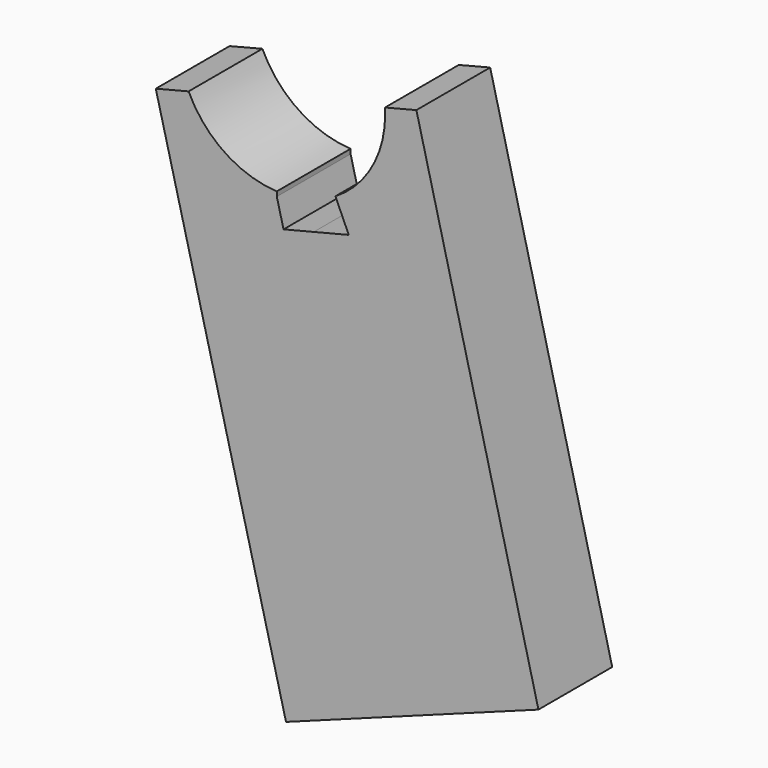
from build123d import *

# Parameters (mm, degrees)
F1_DEPTH = 15.24
F3_DEPTH = 19.05


with BuildPart() as f1:
    # F0 (on Front) → F1 (new body)
    with BuildSketch(Plane.XZ):
        with BuildLine():
            Line((-21.52114356, 85.1240309625), (0, 0))
            Line((0, 0), (20.8568082863, 7.6775108668))
            Line((20.8568082863, 7.6775108668), (4.5795240596, 72.7718073389))
            Line((4.5795240596, 72.7718073389), (-0.4082683617, 71.5245749498))
            Line((-0.4082683617, 71.5245749498), (-1.5212152076, 75.9266886902))
            Line((-1.5212152076, 75.9266886902), (-1.5212152076, 76.6897401217))
            ThreePointArc((-1.5212152076, 76.6897401217), (-10.169053912, 79.5702708584), (-16.09521015, 86.4958209323))
            Line((-16.09521015, 86.4958209323), (-21.52114356, 85.1240309625))
        make_face()
        with BuildLine():
            Line((4.5795240596, 72.7718073389), (20.8568082863, 7.6775108668))
            Line((20.8568082863, 7.6775108668), (41.7136165726, 15.3550217335))
            Line((41.7136165726, 15.3550217335), (21.5447748881, 96.012))
            Line((21.5447748881, 96.012), (16.3563096717, 94.7002469789))
            ThreePointArc((16.3563096717, 94.7002469789), (16.3779545339, 94.2047648695), (16.3851715255, 93.708862726))
            ThreePointArc((16.3851715255, 93.708862726), (14.1881185465, 85.3390731447), (8.1634770852, 79.127461865))
            Line((8.1634770852, 79.127461865), (10.3645013352, 74.2183813778))
            Line((10.3645013352, 74.2183813778), (4.5795240596, 72.7718073389))
        make_face()
    extrude(amount=F1_DEPTH)

    # F2 (on face) → F3 (cut)
    with BuildSketch(Plane(origin=(0, 0, 0), x_dir=(0.938439068, 0, 0.3454448084), z_dir=(0.3454448084, 0, -0.938439068))):
        with BuildLine():
            Line((10.34598317, 7.62), (8.6325361952, 7.62))
            ThreePointArc((8.6325361952, 7.62), (9.4892596826, 6.7632765126), (10.34598317, 7.62))
        make_face()
        with BuildLine():
            ThreePointArc((10.34598317, 7.62), (9.4892596826, 8.4767234874), (8.6325361952, 7.62))
            Line((8.6325361952, 7.62), (10.34598317, 7.62))
        make_face()
        with BuildLine():
            Line((34.1994132364, 7.62), (36.0651795303, 7.62))
            ThreePointArc((36.0651795303, 7.62), (35.1322963834, 8.5528831469), (34.1994132364, 7.62))
        make_face()
        with BuildLine():
            ThreePointArc((34.1994132364, 7.62), (35.1322963834, 6.6871168531), (36.0651795303, 7.62))
            Line((36.0651795303, 7.62), (34.1994132364, 7.62))
        make_face()
    extrude(amount=-F3_DEPTH, mode=Mode.SUBTRACT)


solid = f1.part
